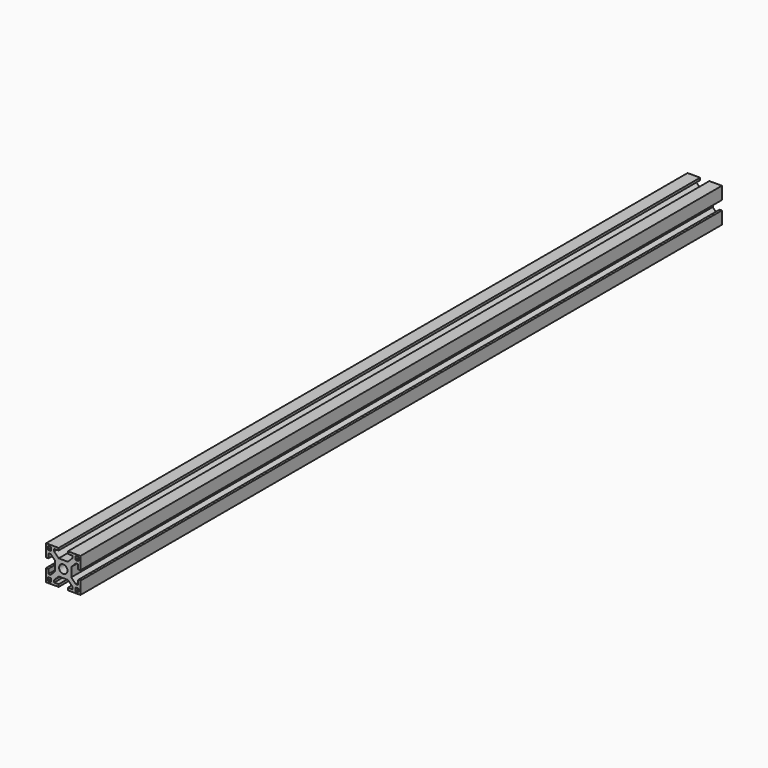
from build123d import *

# Parameters (mm, degrees)
F0_W     = 30
F0_H     = 30
F1_DEPTH = 700
F2_R     = 3.65
F2_W     = 3
F2_H     = 3
F3_DEPTH = 700.001


with BuildPart() as f1:
    # F0 (on Front) → F1 (new body)
    with BuildSketch(Plane.XZ):
        Rectangle(F0_W, F0_H)
    extrude(amount=F1_DEPTH)

    # F2 (on face) → F3 (cut, through all)
    with BuildSketch(Plane.XZ.offset(700)):
        Polygon((-13, 4), (-15, 4), (-15, -4), (-13, -4), (-13, -8), (-11, -8), (-7, -4), (-7, 4), (-11, 8), (-13, 8), align=None)
        Polygon((4, 15), (-4, 15), (-4, 13), (-8, 13), (-8, 11), (-4, 7), (4, 7), (8, 11), (8, 13), (4, 13), align=None)
        Polygon((13, -4), (15, -4), (15, 4), (13, 4), (13, 8), (11, 8), (7, 4), (7, -4), (11, -8), (13, -8), align=None)
        Circle(F2_R)
        Polygon((-4, -12.938677), (-4, -15), (4, -15), (3.952038, -12.938677), (8, -12.938677), (8, -10.938677), (4, -6.938677), (-4, -6.938677), (-8, -10.938677), (-8, -12.938677), align=None)
        with Locations((12, 12)):
            Rectangle(F2_W, F2_H)
        with Locations((-12, 12)):
            Rectangle(F2_W, F2_H)
        with Locations((12, -12)):
            Rectangle(F2_W, F2_H)
        with Locations((-12, -12)):
            Rectangle(F2_W, F2_H)
    extrude(amount=-F3_DEPTH, mode=Mode.SUBTRACT)


solid = f1.part
